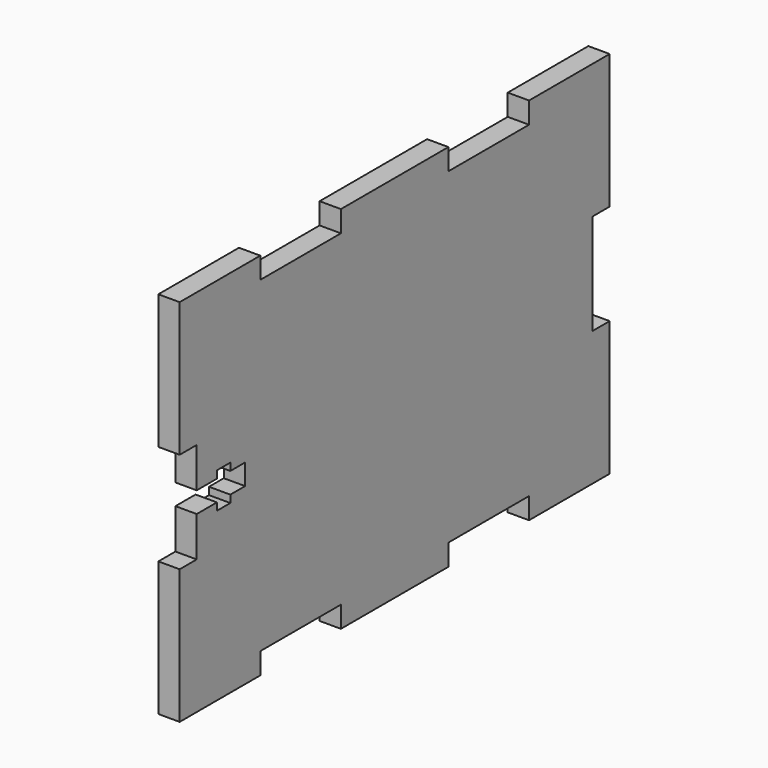
from build123d import *

# Parameters (mm, degrees)
F1_W     = 80
F1_H     = 55
F2_DEPTH = 3.175
F3_W     = 3.175
F3_H     = 15
F3_W_2   = 15
F3_H_2   = 3.175
F3_W_3   = 3.75
F3_H_3   = 3.1
F3_W_4   = 2.5
F3_H_4   = 1.1
F3_W_5   = 2.75
F4_DEPTH = 3.176


with BuildPart() as f2:
    # F1 (on Right) → F2 (new body)
    with BuildSketch(Plane.YZ):
        Rectangle(F1_W, F1_H)
    extrude(amount=F2_DEPTH)

    # F3 (on face) → F4 (cut, through all)
    with BuildSketch(Plane.YZ.offset(3.175)):
        with Locations((38.4125, 0)):
            Rectangle(F3_W, F3_H)
        with Locations((-17.5, -25.9125)):
            Rectangle(F3_W_2, F3_H_2)
        with Locations((17.5, -25.9125)):
            Rectangle(F3_W_2, F3_H_2)
        with Locations((-17.5, 25.9125)):
            Rectangle(F3_W_2, F3_H_2)
        with Locations((17.5, 25.9125)):
            Rectangle(F3_W_2, F3_H_2)
        with Locations((-34.95, 0)):
            Rectangle(F3_W_3, F3_H_3)
        Polygon((-36.825, -7.5), (-36.825, -1.55), (-36.825, 1.55), (-36.825, 7.5), (-40, 7.5), (-40, -7.5), align=None)
        with Locations((-31.825, 0)):
            Rectangle(F3_W_4, F3_H_3)
        with Locations((-31.825, -2.1)):
            Rectangle(F3_W_4, F3_H_4)
        with Locations((-29.2, 0)):
            Rectangle(F3_W_5, F3_H_3)
        with Locations((-31.825, 2.1)):
            Rectangle(F3_W_4, F3_H_4)
    extrude(amount=-F4_DEPTH, mode=Mode.SUBTRACT)


solid = f2.part
